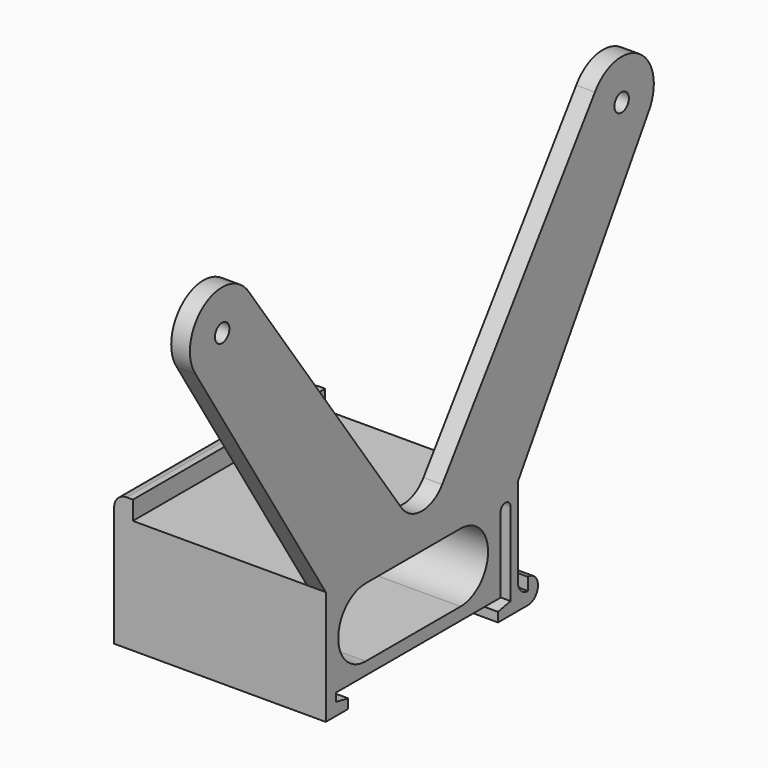
from build123d import *

# Parameters (mm, degrees)
SKETCH001_R  = 1.45
PAD_DEPTH    = 33.9
SKETCH002_W  = 200
SKETCH002_H  = 80
POCKET_DEPTH = 30.9
SKETCH003_W  = 38.5
SKETCH003_H  = 3
PAD001_DEPTH = 3
FILLET_R     = 2
FILLET001_R  = 5


with BuildPart() as part:
    # Sketch001 → Pad (new body)
    with BuildSketch(Plane.YZ):
        with BuildLine():
            Line((-15, -3.3), (-19.5, -3.3))
            Line((-19.5, -3.3), (-19.5, 15))
            Line((-19.5, 15), (-45.596074, 56.3914))
            ThreePointArc((-34.903926, 63.6086), (-43.8586, 65.346074), (-45.596074, 56.3914))
            Line((-34.903926, 63.6086), (-0.25, 15))
            Line((-0.25, 15), (34.403926, 63.6086))
            ThreePointArc((45.096074, 56.3914), (43.3586, 65.346074), (34.403926, 63.6086))
            Line((45.096074, 56.3914), (19, 15))
            Line((19, 15), (19, 0.7))
            ThreePointArc((19, 0.7), (19.585786, -0.714214), (21, -1.3))
            Line((21, -1.3), (21, 0.7))
            ThreePointArc((21, -3.3), (23, -1.3), (21, 0.7))
            Line((21, -3.3), (15, -3.3))
            Line((15, -3.3), (15, -1.8))
            Line((15, -1.8), (17.5, -1.3))
            Line((17.5, -1.3), (17.5, 0))
            Line((17.5, 12), (17.5, 0))
            ThreePointArc((17.5, 12), (16.5, 13), (15.5, 12))
            Line((15.5, 0), (15.5, 12))
            Line((-17.5, 0), (15.5, 0))
            Line((-17.5, 0), (-17.5, -1.3))
            Line((-17.5, -1.3), (-15, -1.8))
            Line((-15, -1.8), (-15, -3.3))
        make_face()
        with Locations((-40.25, 60)):
            Circle(SKETCH001_R, mode=Mode.SUBTRACT)
        with Locations((39.75, 60)):
            Circle(SKETCH001_R, mode=Mode.SUBTRACT)
        with BuildLine():
            ThreePointArc((-11.5, 13), (-17, 7.5), (-11.5, 2))
            Line((-11.5, 2), (7.5, 2))
            ThreePointArc((7.5, 2), (13, 7.5), (7.5, 13))
            Line((-11.5, 13), (7.5, 13))
        make_face(mode=Mode.SUBTRACT)
    extrude(amount=PAD_DEPTH)

    # Sketch002 (on Face30 of Pad) → Pocket (cut)
    with BuildSketch(Plane(origin=(0, 0, 0), x_dir=(0, 1, 0), z_dir=(-1, 0, 0))):
        with Locations((19, -55)):
            Rectangle(SKETCH002_W, SKETCH002_H)
    extrude(amount=-POCKET_DEPTH, mode=Mode.SUBTRACT)

    # Sketch003 (on Face18 of Pocket) → Pad001 (join)
    with BuildSketch(Plane(origin=(0, 0, 15), x_dir=(0, -1, 0), z_dir=(0, 0, 1))):
        with Locations((0.25, 1.5)):
            Rectangle(SKETCH003_W, SKETCH003_H)
    extrude(amount=PAD001_DEPTH)

    # Fillet
    fillet_edges = [part.edges().sort_by_distance(p)[0] for p in [
        (0, -0.25, 18),
    ]]
    fillet(fillet_edges, radius=FILLET_R)

    # Fillet001
    fillet001_edges = [part.edges().sort_by_distance(p)[0] for p in [
        (32.4, -0.25, 15),
    ]]
    fillet(fillet001_edges, radius=FILLET001_R)


solid = part.part
